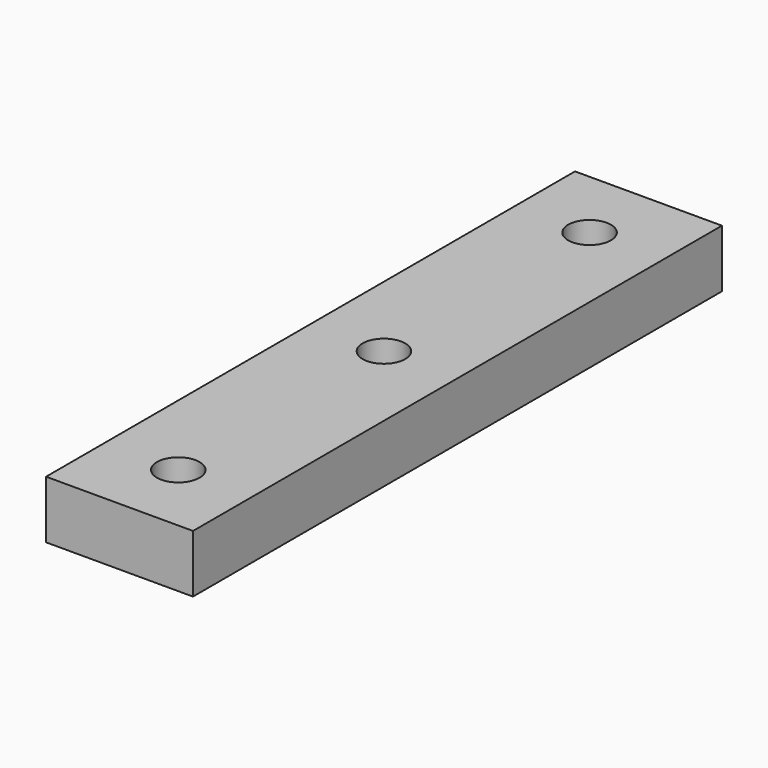
from build123d import *

# Parameters (mm, degrees)
SKETCH010_R      = 2.9
EXTRUDE010_DEPTH = 20
SKETCH009_W      = 20
SKETCH009_H      = 7.87
EXTRUDE009_DEPTH = 90


with BuildPart() as tornillos003:
    # Sketch010 (on Face4 of Extrude009) → Extrude010 (new body)
    with BuildSketch(Plane.XY.offset(19.952513)):
        with Locations((10, -80)):
            Circle(SKETCH010_R)
        with Locations((10, -45.010692)):
            Circle(SKETCH010_R)
        with Locations((10, -10.021384)):
            Circle(SKETCH010_R)
    extrude(amount=EXTRUDE010_DEPTH)


with BuildPart() as tornillos003_1:
    # Extrude010 placement: moved
    add(tornillos003.part.moved(Location((0, 0, -15))))


with BuildPart() as cut:
    # Sketch009 → Extrude009 (new body)
    with BuildSketch(Plane.XZ):
        with Locations((10.003101, 16.017513)):
            Rectangle(SKETCH009_W, SKETCH009_H)
    extrude(amount=EXTRUDE009_DEPTH)

    # Cut: cut Tornillos003
    add(tornillos003_1.part, mode=Mode.SUBTRACT)


solid = cut.part
